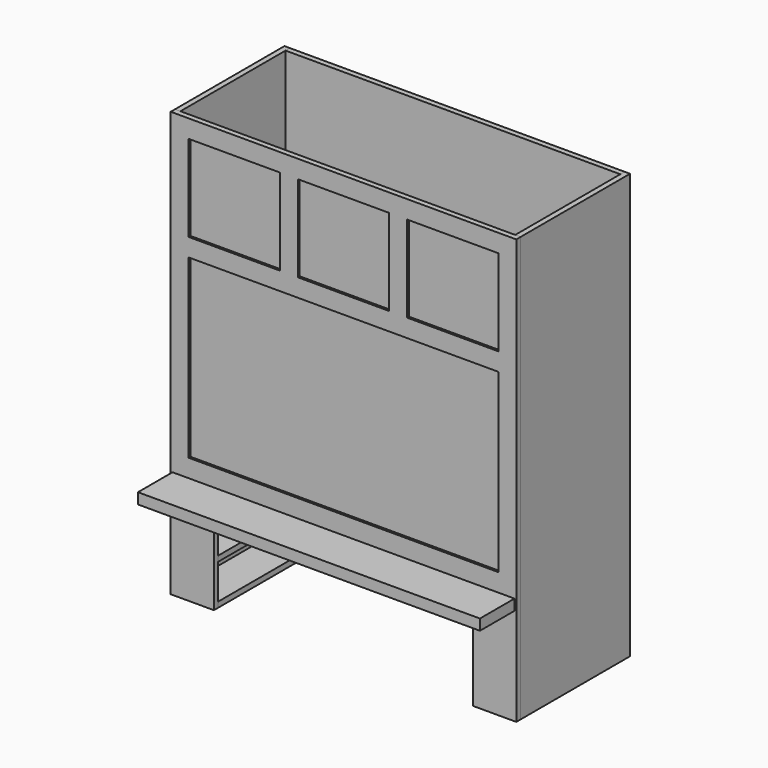
from build123d import *

# Parameters (mm, degrees)
F2_W      = 1219.2
F2_H      = 19.05
F3_DEPTH  = 1498.6
F4_W      = 19.05
F4_H      = 482.6
F5_DEPTH  = 1498.6
F6_W      = 1181.1
F6_H      = 1498.6
F7_DEPTH  = 19.05
F8_W      = 914.4
F8_H      = 304.8
F9_DEPTH  = 501.65
F10_W     = 133.35
F10_H     = 19.05
F11_DEPTH = 463.55
F12_W     = 19.05
F12_H     = 203.2
F13_DEPTH = 463.55
F15_W     = 1206.5
F15_H     = 38.1
F16_DEPTH = 152.4
F17_W     = 321.733333
F17_H     = 304.8
F17_W_2   = 321.733334
F17_W_3   = 1092.2
F17_H_2   = 622.3
F18_DEPTH = 7.9375


with BuildPart() as f3:
    # F2 (on Top) → F3 (new body, through all)
    with BuildSketch(Plane.XY):
        with Locations((0, -241.3)):
            Rectangle(F2_W, F2_H)
    extrude(amount=F3_DEPTH)


with BuildPart() as f5:
    # F4 (on Top) → F5 (new body, through all)
    with BuildSketch(Plane.XY):
        with Locations((-600.075, 9.525)):
            Rectangle(F4_W, F4_H)
        with Locations((600.075, 9.525)):
            Rectangle(F4_W, F4_H)
    extrude(amount=F5_DEPTH)


with BuildPart() as f7:
    # F6 (on face) → F7 (new body)
    with BuildSketch(Plane(origin=(0, 250.825, 0), x_dir=(-1, 0, 0), z_dir=(0, 1, 0))):
        with Locations((0, 749.3)):
            Rectangle(F6_W, F6_H)
    extrude(amount=-F7_DEPTH)


with BuildPart() as f9_tool:
    # F8 (on face) → F9 (new body, through all)
    with BuildSketch(Plane.XZ.offset(250.825)):
        with Locations((0, 152.4)):
            Rectangle(F8_W, F8_H)
    extrude(amount=-F9_DEPTH)


with BuildPart() as f3_1:
    add(f3.part)

    # F9: cut by f9_tool
    add(f9_tool.part, mode=Mode.SUBTRACT)

    # F17 (on face) → F18 (cut)
    with BuildSketch(Plane.XZ.offset(250.825)):
        with Locations((-385.233334, 1282.7)):
            Rectangle(F17_W, F17_H)
        with Locations((0, 1282.7)):
            Rectangle(F17_W_2, F17_H)
        with Locations((385.233334, 1282.7)):
            Rectangle(F17_W, F17_H)
        with Locations((0, 755.65)):
            Rectangle(F17_W_3, F17_H_2)
    extrude(amount=-F18_DEPTH, mode=Mode.SUBTRACT)


with BuildPart() as f7_1:
    add(f7.part)

    # F9: cut by f9_tool
    add(f9_tool.part, mode=Mode.SUBTRACT)


with BuildPart() as f11:
    # F10 (on face) → F11 (new body, through all)
    with BuildSketch(Plane(origin=(0, -231.775, 0), x_dir=(-1, 0, 0), z_dir=(0, 1, 0))):
        with Locations((523.875, 9.525)):
            Rectangle(F10_W, F10_H)
        with Locations((523.875, 295.275)):
            Rectangle(F10_W, F10_H)
        with Locations((523.875, 152.4)):
            Rectangle(F10_W, F10_H)
    extrude(amount=F11_DEPTH)


with BuildPart() as f13:
    # F12 (on face) → F13 (new body, through all)
    with BuildSketch(Plane(origin=(0, -231.775, 0), x_dir=(-1, 0, 0), z_dir=(0, 1, 0))):
        with Locations((466.725, 406.4)):
            Rectangle(F12_W, F12_H)
    extrude(amount=F13_DEPTH)


with BuildPart() as f14_1:
    # F14: instance of F13
    add(f13.part.mirror(Plane.YZ))


with BuildPart() as f14_2:
    # F14: instance of F11
    add(f11.part.mirror(Plane.YZ))


with BuildPart() as f16:
    # F15 (on face) → F16 (new body)
    with BuildSketch(Plane.XZ.offset(250.825)):
        with Locations((0, 361.95)):
            Rectangle(F15_W, F15_H)
    extrude(amount=F16_DEPTH)


solid = Compound([f5.part, f3_1.part, f7_1.part, f11.part, f13.part, f14_1.part, f14_2.part, f16.part])
